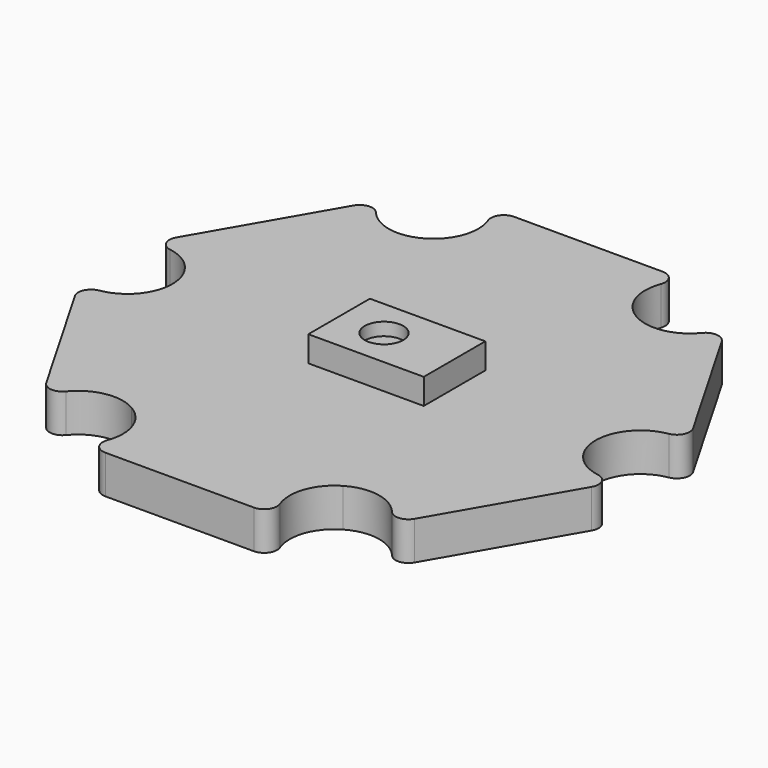
from build123d import *

# Parameters (mm, degrees)
F1_DEPTH  = 1.5
F2_R      = 1.75
F3_DEPTH  = 25
F4_R      = 0.5
F5_R      = 2.5
F6_DEPTH  = 1
F7_W      = 4.5
F7_H      = 3
F8_DEPTH  = 1
F9_R      = 0.75
F10_DEPTH = 0.5


with BuildPart() as f1:
    # F0 (on Top) → F1 (new body)
    with BuildSketch(Plane.XY):
        Polygon((5.7504086811, 9.96), (-5.7504086811, 9.96), (-11.5008173623, 0), (-5.7504086811, -9.96), (5.7504086811, -9.96), (11.5008173623, 0), align=None)
    extrude(amount=F1_DEPTH)

    # F2 (on face) → F3 (cut)
    with BuildSketch(Plane.XY.offset(1.5)):
        with BuildLine():
            ThreePointArc((6.7504086811, 8.6609618943), (4.1254086811, 10.1765063509), (4.1254086811, 7.1454174377))
            ThreePointArc((4.1254086811, 7.1454174377), (5.8754086811, 7.1454174377), (6.7504086811, 8.6609618943))
        make_face()
        with BuildLine():
            ThreePointArc((11.7508173623, 0), (10.0008173623, 1.75), (8.2508173623, 0))
            ThreePointArc((8.2508173623, 0), (10.0008173623, -1.75), (11.7508173623, 0))
        make_face()
        with BuildLine():
            ThreePointArc((6.7504086811, -8.6609618943), (5.8754086811, -7.1454174377), (4.1254086811, -7.1454174377))
            ThreePointArc((4.1254086811, -7.1454174377), (4.1254086811, -10.1765063509), (6.7504086811, -8.6609618943))
        make_face()
        with BuildLine():
            ThreePointArc((-3.2504086811, -8.6609618943), (-3.4848642245, -7.7859618943), (-4.1254086811, -7.1454174377))
            ThreePointArc((-4.1254086811, -7.1454174377), (-6.5159531378, -9.5359618943), (-3.2504086811, -8.6609618943))
        make_face()
        with Locations((-10.0008173623, 0)):
            Circle(F2_R)
        with BuildLine():
            ThreePointArc((-3.2504086811, 8.6609618943), (-6.5159531378, 9.5359618943), (-4.1254086811, 7.1454174377))
            ThreePointArc((-4.1254086811, 7.1454174377), (-3.4848642245, 7.7859618943), (-3.2504086811, 8.6609618943))
        make_face()
    extrude(amount=-F3_DEPTH, mode=Mode.SUBTRACT)

    # F4
    f4_edges = [f1.edges().sort_by_distance(p)[0] for p in [
        (-3.827805, 9.96, 0.75),
        (-6.711711, 8.294976, 0.75),
        (3.827805, 9.96, 0.75),
        (6.711711, 8.294976, 0.75),
        (-10.539515, 1.665024, 0.75),
        (-10.539515, -1.665024, 0.75),
        (-3.827805, -9.96, 0.75),
        (-6.711711, -8.294976, 0.75),
        (3.827805, -9.96, 0.75),
        (6.711711, -8.294976, 0.75),
        (10.539515, 1.665024, 0.75),
        (10.539515, -1.665024, 0.75),
    ]]
    fillet(f4_edges, radius=F4_R)

    # F5 (on face) → F6 (cut)
    with BuildSketch(Plane(origin=(0, 0, 0), x_dir=(1, 0, 0), z_dir=(0, 0, -1))):
        Circle(F5_R)
    extrude(amount=-F6_DEPTH, mode=Mode.SUBTRACT)

    # F7 (on face) → F8 (join)
    with BuildSketch(Plane.XY.offset(1.5)):
        with Locations((0.5, 0)):
            Rectangle(F7_W, F7_H)
    extrude(amount=F8_DEPTH)

    # F9 (on face) → F10 (cut)
    with BuildSketch(Plane.XY.offset(2.5)):
        Circle(F9_R)
    extrude(amount=-F10_DEPTH, mode=Mode.SUBTRACT)


solid = f1.part
